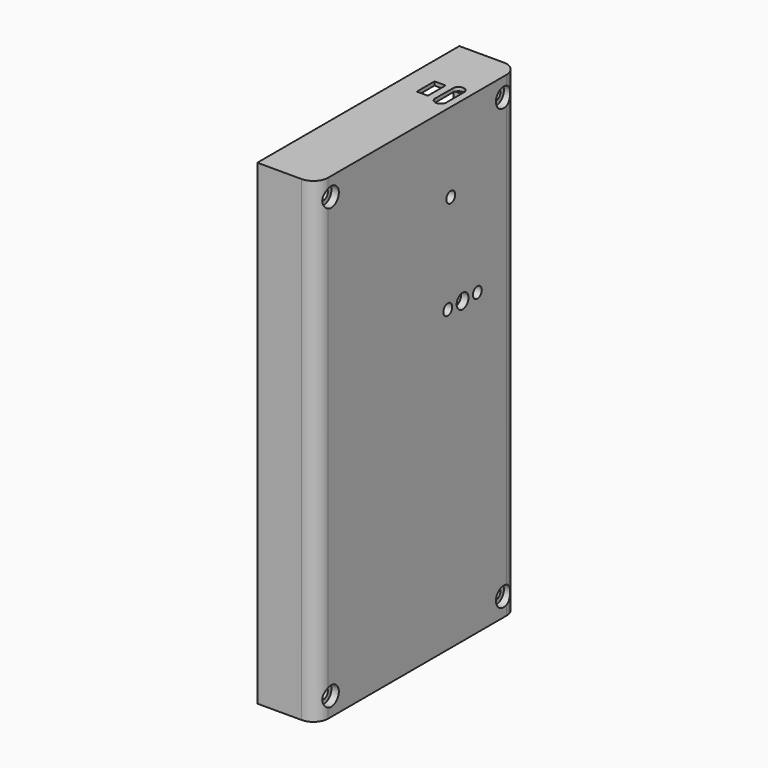
from build123d import *

# Parameters (mm, degrees)
SKETCH016_W     = 68.4
SKETCH016_H     = 129
PAD004_DEPTH    = 16
FILLET002_R     = 4
SKETCH017_R     = 1.4
POCKET016_DEPTH = 16
SKETCH018_R     = 2.6
POCKET017_DEPTH = 2
POCKET018_DEPTH = 11
SKETCH020_W     = 21
SKETCH020_H     = 52.4
POCKET019_DEPTH = 3
SKETCH021_W     = 6
SKETCH021_H     = 3
POCKET020_DEPTH = 1
SKETCH022_W     = 2
SKETCH022_H     = 11.5
PAD005_DEPTH    = 1.2
SKETCH023_R     = 2
SKETCH023_R_2   = 1.5
POCKET021_DEPTH = 5


with BuildPart() as part:
    # Sketch016 → Pad004 (new body)
    with BuildSketch(Plane.YZ):
        with Locations((0, 25.5)):
            Rectangle(SKETCH016_W, SKETCH016_H)
    extrude(amount=PAD004_DEPTH)

    # Fillet002
    fillet002_edges = [part.edges().sort_by_distance(p)[0] for p in [
        (16, -34.2, 25.5),
        (16, 34.2, 25.5),
    ]]
    fillet(fillet002_edges, radius=FILLET002_R)

    # Sketch017 (on Face8 of Fillet002) → Pocket016 (cut)
    with BuildSketch(Plane.YZ.offset(16)):
        with Locations((-29.2, 85)):
            Circle(SKETCH017_R)
        with Locations((29.2, 85)):
            Circle(SKETCH017_R)
        with Locations((29.2, -34)):
            Circle(SKETCH017_R)
        with Locations((-29.2, -34)):
            Circle(SKETCH017_R)
    extrude(amount=-POCKET016_DEPTH, mode=Mode.SUBTRACT)

    # Sketch018 (on Face8 of Pocket016) → Pocket017 (cut)
    with BuildSketch(Plane.YZ.offset(16)):
        with Locations((-29.2, 85)):
            Circle(SKETCH018_R)
        with Locations((29.2, 85)):
            Circle(SKETCH018_R)
        with Locations((29.2, -34)):
            Circle(SKETCH018_R)
        with Locations((-29.2, -34)):
            Circle(SKETCH018_R)
    extrude(amount=-POCKET017_DEPTH, mode=Mode.SUBTRACT)

    # Sketch019 (on Face4 of Pocket017) → Pocket018 (cut)
    with BuildSketch(Plane(origin=(0, 0, 0), x_dir=(0, 1, 0), z_dir=(-1, 0, 0))):
        with BuildLine():
            ThreePointArc((25.8, 34), (26.795837, 31.595837), (29.2, 30.6))
            Line((32.2, 30.6), (29.2, 30.6))
            Line((32.2, -82.6), (32.2, 30.6))
            Line((29.2, -82.6), (32.2, -82.6))
            ThreePointArc((29.2, -82.6), (27.502944, -83.302944), (26.8, -85))
            Line((26.8, -89), (26.8, -85))
            Line((-25.8, -89), (26.8, -89))
            Line((-25.8, -89), (-25.8, -85))
            ThreePointArc((-25.8, -85), (-26.795837, -82.595837), (-29.2, -81.6))
            Line((-32.2, -81.6), (-29.2, -81.6))
            Line((-32.2, -77.5), (-32.2, -81.6))
            Line((3.8, -77.5), (-32.2, -77.5))
            Line((3.8, -30.5), (3.8, -77.5))
            Line((1.8, -30.5), (3.8, -30.5))
            Line((1.8, -75.5), (1.8, -30.5))
            Line((-32.2, -75.5), (1.8, -75.5))
            Line((-32.2, 24.5), (-32.2, -75.5))
            Line((1.8, 24.5), (-32.2, 24.5))
            Line((1.8, 24.5), (1.8, -20.5))
            Line((1.8, -20.5), (3.8, -20.5))
            Line((3.8, 26.5), (3.8, -20.5))
            Line((-32.2, 26.5), (3.8, 26.5))
            Line((-32.2, 30.6), (-32.2, 26.5))
            Line((-29.2, 30.6), (-32.2, 30.6))
            ThreePointArc((-29.2, 30.6), (-26.795837, 31.595837), (-25.8, 34))
            Line((-25.8, 34), (-25.8, 37))
            Line((-25.8, 37), (25.8, 37))
            Line((25.8, 37), (25.8, 34))
        make_face()
    extrude(amount=-POCKET018_DEPTH, mode=Mode.SUBTRACT)

    # Sketch020 (on Face49 of Pocket018) → Pocket019 (cut)
    with BuildSketch(Plane(origin=(11, 0, 0), x_dir=(0, 1, 0), z_dir=(-1, 0, 0))):
        with Locations((15.3, -62.8)):
            Rectangle(SKETCH020_W, SKETCH020_H)
    extrude(amount=-POCKET019_DEPTH, mode=Mode.SUBTRACT)

    # Sketch021 (on Face50 of Pocket019) → Pocket020 (cut)
    with BuildSketch(Plane.YX.offset(-89)):
        with BuildLine():
            ThreePointArc((12.3, 14), (10.8, 12.5), (12.3, 11))
            Line((12.3, 11), (18.3, 11))
            ThreePointArc((18.3, 11), (19.8, 12.5), (18.3, 14))
            Line((12.3, 14), (18.3, 14))
        make_face()
        with Locations((15.3, 7.5)):
            Rectangle(SKETCH021_W, SKETCH021_H)
    extrude(amount=-POCKET020_DEPTH, mode=Mode.SUBTRACT)

    # Sketch022 (on Face60 of Pocket020) → Pad005 (join)
    with BuildSketch(Plane(origin=(11, 0, 0), x_dir=(0, 1, 0), z_dir=(-1, 0, 0))):
        with Locations((2.8, -83.25)):
            Rectangle(SKETCH022_W, SKETCH022_H)
        Polygon((1.8, -33.6), (28.8, -33.6), (28.8, -77.5), (26.8, -77.5), (26.8, -35.6), (1.8, -35.6), align=None)
    extrude(amount=PAD005_DEPTH)

    # Sketch023 (on Face55 of Pad005) → Pocket021 (cut)
    with BuildSketch(Plane(origin=(14, 0, 0), x_dir=(0, 1, 0), z_dir=(-1, 0, 0))):
        with Locations((15.3, -42.1)):
            Circle(SKETCH023_R)
        with Locations((10.3, -42.1)):
            Circle(SKETCH023_R_2)
        with Locations((20.3, -42.1)):
            Circle(SKETCH023_R_2)
        with Locations((11.3, -68.5)):
            Circle(SKETCH023_R_2)
    extrude(amount=-POCKET021_DEPTH, mode=Mode.SUBTRACT)


solid = part.part
